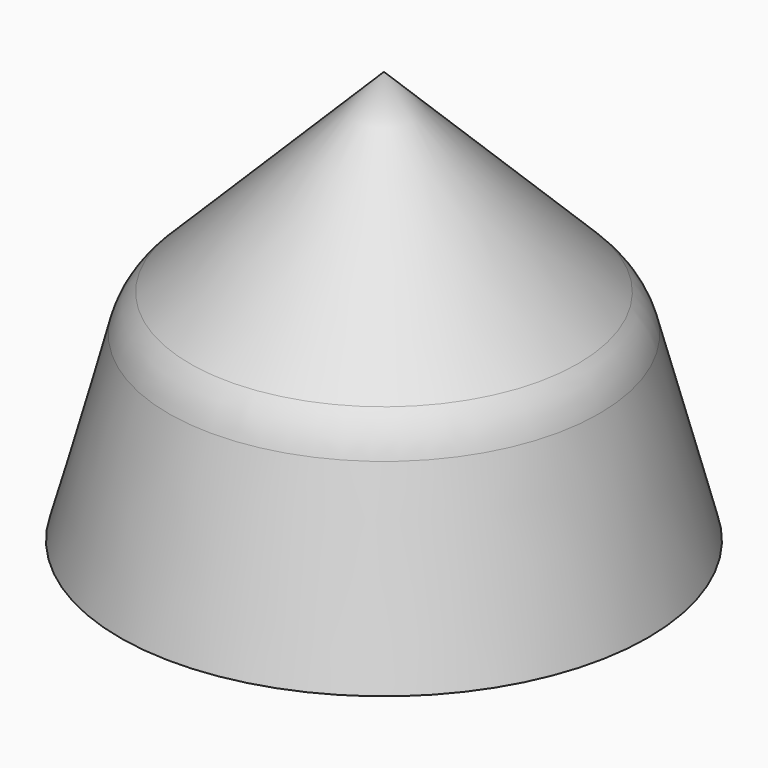
from build123d import *


with BuildPart() as part:
    # Sketch → Revolution (revolve)
    with BuildSketch(Plane.XZ):
        with BuildLine():
            Line((0, 50), (23.516856, 26.483144))
            ThreePointArc((26.105046, 22.000267), (25.106042, 24.412076), (23.516856, 26.483144))
            Line((26.105046, 22.000267), (32, 0))
            Line((32, 0), (0, 0))
            Line((0, 0), (0, 50))
        make_face()
    revolve(axis=Axis((0, 0, 0), (0, 0, 1)))


solid = part.part
